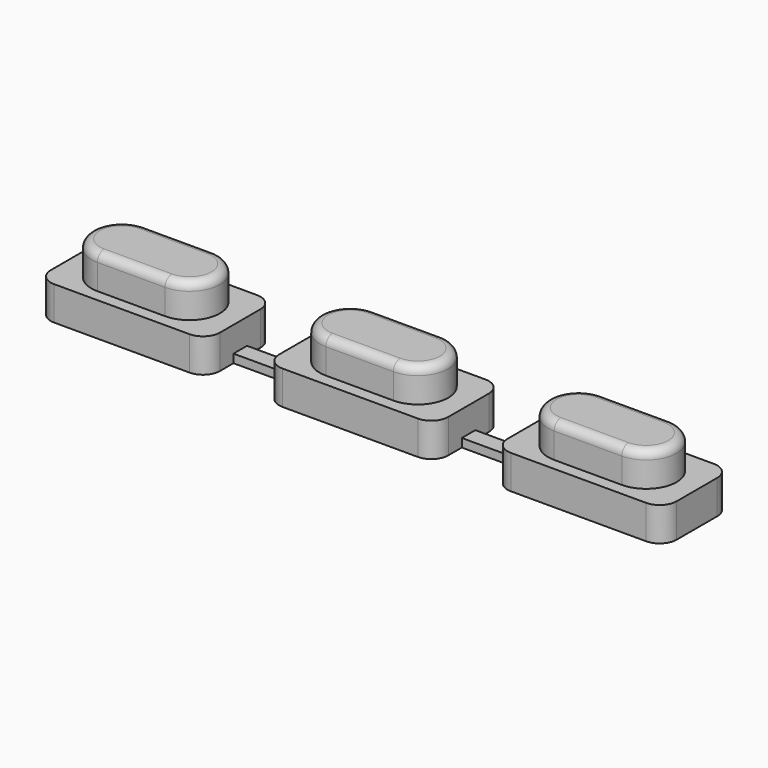
from build123d import *

# Parameters (mm, degrees)
PAD_DEPTH    = 2
FILLET_R     = 1
SKETCH001_W  = 3.5
SKETCH001_H  = 1
POCKET_DEPTH = 1.5
PAD001_DEPTH = 2
FILLET001_R  = 0.5


with BuildPart() as part:
    # Sketch → Pad (new body)
    with BuildSketch(Plane.XY):
        Polygon((-18.5, 2.5), (-8.5, 2.5), (-8.5, 0.5), (-5, 0.5), (-5, 2.5), (5, 2.5), (5, 0.5), (8.5, 0.5), (8.5, 2.5), (18.5, 2.5), (18.5, -2.5), (8.5, -2.5), (8.5, -0.5), (5, -0.5), (5, -2.5), (-5, -2.5), (-5, -0.5), (-8.5, -0.5), (-8.5, -2.5), (-18.5, -2.5), align=None)
    extrude(amount=PAD_DEPTH)

    # Fillet
    fillet_edges = [part.edges().sort_by_distance(p)[0] for p in [
        (-18.5, 2.5, 1),
        (-5, 2.5, 1),
        (8.5, 2.5, 1),
        (-18.5, -2.5, 1),
        (-5, -2.5, 1),
        (8.5, -2.5, 1),
        (-8.5, 2.5, 1),
        (-8.5, -2.5, 1),
        (5, 2.5, 1),
        (5, -2.5, 1),
        (18.5, 2.5, 1),
        (18.5, -2.5, 1),
    ]]
    fillet(fillet_edges, radius=FILLET_R)

    # Sketch001 → Pocket (cut)
    with BuildSketch(Plane.XY.offset(2)):
        with Locations((-6.75, 0)):
            Rectangle(SKETCH001_W, SKETCH001_H)
        with Locations((6.75, 0)):
            Rectangle(SKETCH001_W, SKETCH001_H)
    extrude(amount=-POCKET_DEPTH, mode=Mode.SUBTRACT)

    # Sketch002 → Pad001 (new body)
    with BuildSketch(Plane.XY.offset(2)):
        with BuildLine():
            ThreePointArc((-15.5, 1.8), (-17.3, 0), (-15.5, -1.8))
            Line((-15.5, -1.8), (-11.5, -1.8))
            ThreePointArc((-11.5, -1.8), (-9.7, 0), (-11.5, 1.8))
            Line((-15.5, 1.8), (-11.5, 1.8))
        make_face()
        with BuildLine():
            ThreePointArc((-2, 1.8), (-3.8, 0), (-2, -1.8))
            Line((-2, -1.8), (2, -1.8))
            ThreePointArc((2, -1.8), (3.8, 0), (2, 1.8))
            Line((-2, 1.8), (2, 1.8))
        make_face()
        with BuildLine():
            ThreePointArc((11.5, 1.8), (9.7, 0), (11.5, -1.8))
            Line((15.5, -1.8), (11.5, -1.8))
            ThreePointArc((15.5, -1.8), (17.3, 0), (15.5, 1.8))
            Line((11.5, 1.8), (15.5, 1.8))
        make_face()
    extrude(amount=PAD001_DEPTH)

    # Fillet001
    fillet001_edges = [part.edges().sort_by_distance(p)[0] for p in [
        (-17.3, 0, 4),
        (-13.5, -1.8, 4),
        (-9.7, 0, 4),
        (-13.5, 1.8, 4),
        (-3.8, 0, 4),
        (0, -1.8, 4),
        (3.8, 0, 4),
        (0, 1.8, 4),
        (17.3, 0, 4),
        (13.5, 1.8, 4),
        (9.7, 0, 4),
        (13.5, -1.8, 4),
    ]]
    fillet(fillet001_edges, radius=FILLET001_R)


solid = part.part
